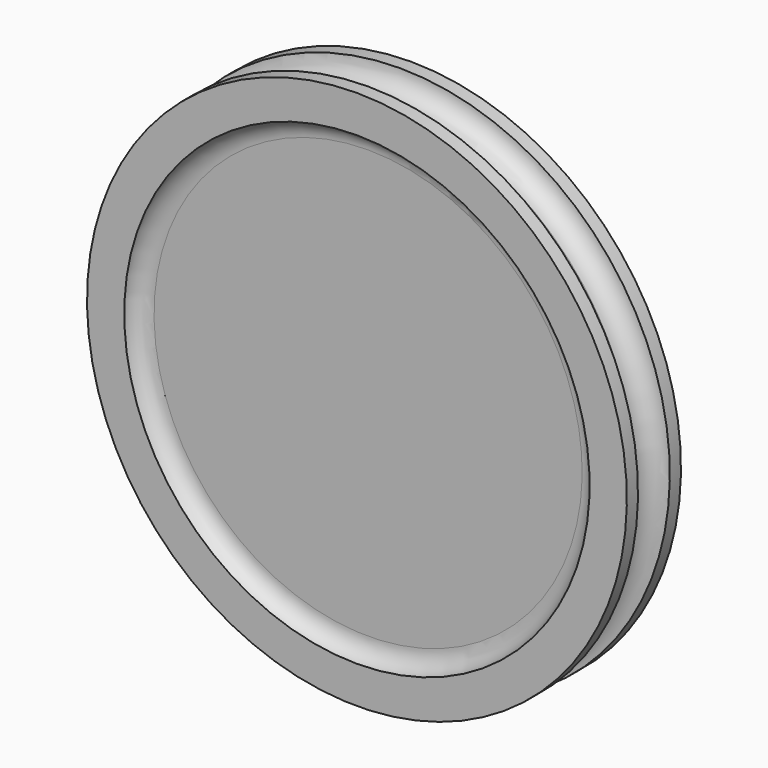
from build123d import *

# Parameters (mm, degrees)
F2_R     = 13.769437
F3_DEPTH = 5


with BuildPart() as f1:
    # F0 (on Right) → F1 (revolve)
    with BuildSketch(Plane.YZ):
        with BuildLine():
            Line((-4.759945, 0), (0, 0))
            Line((0, 0), (0, 29.21))
            ThreePointArc((0, 29.21), (0.755318, 31.017349), (2.572055, 31.749798))
            Line((2.572055, 31.749798), (2.572055, 36.829798))
            Line((2.572055, 36.829798), (0.667055, 36.829798))
            ThreePointArc((0.667055, 36.829798), (-0.114091, 34.943944), (-1.999945, 34.162798))
            ThreePointArc((-1.999945, 34.162798), (-3.94621, 34.910287), (-4.759945, 36.829798))
            Line((-4.759945, 36.829798), (-6.664945, 36.829798))
            Line((-6.664945, 36.829798), (-6.664945, 31.749798))
            ThreePointArc((-6.664945, 31.749798), (-5.266739, 30.814205), (-4.759945, 29.21))
            Line((-4.759945, 29.21), (-4.759945, 0))
        make_face()
    revolve(axis=Axis((0, -2.379972, 0), (0, 1, 0)))

    # F2 (on face) → F3 (join)
    with BuildSketch(Plane(origin=(0, 0, 0), x_dir=(-1, 0, 0), z_dir=(0, 1, 0))):
        Circle(F2_R)
    extrude(amount=F3_DEPTH)


solid = f1.part
